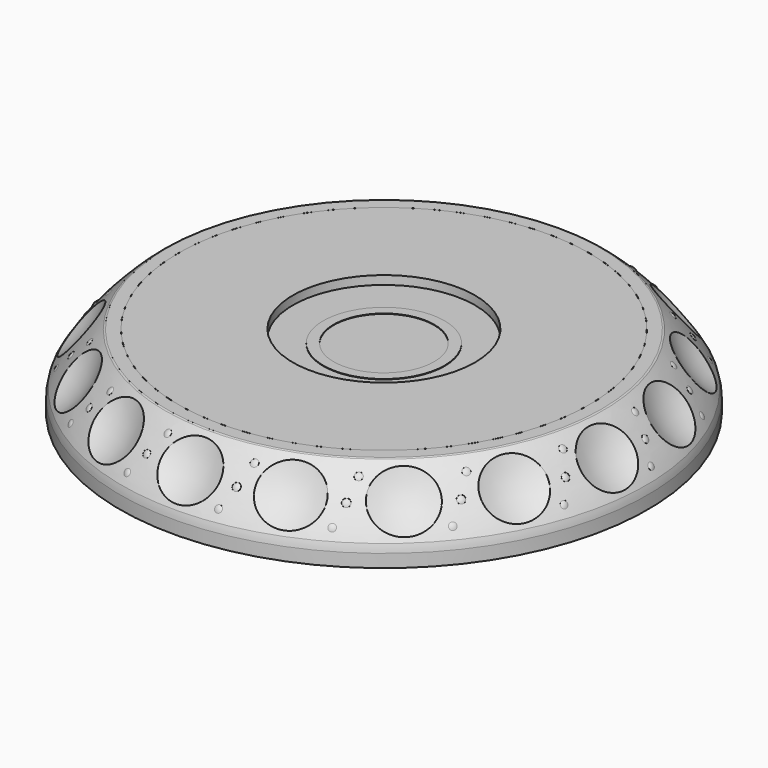
from build123d import *

# Parameters (mm, degrees)
CYLINDER_R            = 59.2
CYLINDER_DEPTH        = 4.6
CYLINDER001_R         = 47.35
CYLINDER001_DEPTH     = 0.05
CYLINDER003_R         = 21
CYLINDER003_DEPTH     = 2
CYLINDER002_R         = 47.4
CYLINDER002_DEPTH     = 2
CYLINDER005_R         = 11.6
CYLINDER005_DEPTH     = 0.1
CYLINDER004_R         = 14
CYLINDER004_DEPTH     = 0.1
CYLINDER006_R         = 23
CYLINDER006_DEPTH     = 3.45
ARRAY003_COUNT        = 17
SPHERE003_ANGLE       = 180
ARRAY002_COUNT        = 17
ARRAY001_COUNT        = 17
ARRAY_COUNT           = 17
ARRAY_PLACEMENT_ANGLE = 10.590003


with BuildPart() as cylinder:
    # Cylinder → Cylinder (new body)
    with BuildSketch(Plane.XY):
        Circle(CYLINDER_R)
    extrude(amount=CYLINDER_DEPTH)


with BuildPart() as cylinder001:
    # Cylinder001 → Cylinder001 (new body)
    with BuildSketch(Plane.XY.offset(7.9)):
        Circle(CYLINDER001_R)
    extrude(amount=CYLINDER001_DEPTH)


with BuildPart() as cylinder003:
    # Cylinder003 → Cylinder003 (new body)
    with BuildSketch(Plane.XY.offset(15.9)):
        Circle(CYLINDER003_R)
    extrude(amount=CYLINDER003_DEPTH)


with BuildPart() as cut:
    # Cylinder002 → Cylinder002 (new body)
    with BuildSketch(Plane.XY.offset(15.9)):
        Circle(CYLINDER002_R)
    extrude(amount=CYLINDER002_DEPTH)

    # Cut: cut Cylinder003
    add(cylinder003.part, mode=Mode.SUBTRACT)


with BuildPart() as cut_1:
    # Cut placement: moved
    add(cut.part.moved(Location((0, 0, -1))))


with BuildPart() as cylinder005:
    # Cylinder005 → Cylinder005 (new body)
    with BuildSketch(Plane.XY):
        Circle(CYLINDER005_R)
    extrude(amount=CYLINDER005_DEPTH)


with BuildPart() as cut001:
    # Cylinder004 → Cylinder004 (new body)
    with BuildSketch(Plane.XY):
        Circle(CYLINDER004_R)
    extrude(amount=CYLINDER004_DEPTH)

    # Cut001: cut Cylinder005
    add(cylinder005.part, mode=Mode.SUBTRACT)


with BuildPart() as cut001_1:
    # Cut001 placement: moved
    add(cut001.part.moved(Location((0, 0, 13.9))))


with BuildPart() as cylinder006:
    # Cylinder006 → Cylinder006 (new body)
    with BuildSketch(Plane.XY.offset(10.45)):
        Circle(CYLINDER006_R)
    extrude(amount=CYLINDER006_DEPTH)


with BuildPart() as array003:
    # Sphere002 → Sphere002 (revolve)
    with BuildSketch(Plane(origin=(-1.8, 51.96, 13.4), x_dir=(1, 0, 0), z_dir=(0, -1, 0))):
        with BuildLine():
            ThreePointArc((0, -1.69), (1.69, 0), (0, 1.69))
            Line((0, 1.69), (0, -1.69))
        make_face()
    revolve(axis=Axis((-1.8, 51.96, 13.4), (0, 0, 1)))

    # Array003: Array003 ×17 about axis
    array003_axis = Axis((0, 0, 13.4), (0, 0, 1))


with BuildPart() as array003_1:
    add(array003.part)
    for i in range(1, ARRAY003_COUNT):
        add(array003.part.rotate(array003_axis, i * 360 / ARRAY003_COUNT))


with BuildPart() as array002:
    # Sphere003 → Sphere003 (revolve)
    with BuildSketch(Plane(origin=(2.2, 57.86, 6.09), x_dir=(1, 0, 0), z_dir=(0, -1, 0))):
        with BuildLine():
            ThreePointArc((1.574063, -0.66815), (1.425945, 0.943812), (0, 1.71))
            Line((0, 1.71), (0, -0.66815))
            Line((0, -0.66815), (1.574063, -0.66815))
        make_face()
    revolve(axis=Axis((2.2, 57.86, 6.09), (0, 0, 1)), revolution_arc=SPHERE003_ANGLE)

    # Array002: Array002 ×17 about axis
    array002_axis = Axis((0, 0, 6.09), (0, 0, 1))


with BuildPart() as array002_1:
    add(array002.part)
    for i in range(1, ARRAY002_COUNT):
        add(array002.part.rotate(array002_axis, i * 360 / ARRAY002_COUNT))


with BuildPart() as array001:
    # Sphere001 → Sphere001 (revolve)
    with BuildSketch(Plane(origin=(0, 55.29, 9.8), x_dir=(1, 0, 0), z_dir=(0, -1, 0))):
        with BuildLine():
            ThreePointArc((0, -1.66), (1.66, 0), (0, 1.66))
            Line((0, 1.66), (0, -1.66))
        make_face()
    revolve(axis=Axis((0, 55.29, 9.8), (0, 0, 1)))

    # Array001: Array001 ×17 about axis
    array001_axis = Axis((0, 0, 9.8), (0, 0, 1))


with BuildPart() as array001_1:
    add(array001.part)
    for i in range(1, ARRAY001_COUNT):
        add(array001.part.rotate(array001_axis, i * 360 / ARRAY001_COUNT))


with BuildPart() as array:
    # Sphere → Sphere (revolve)
    with BuildSketch(Plane(origin=(0, 67.42, 20.43), x_dir=(1, 0, 0), z_dir=(0, -1, 0))):
        with BuildLine():
            ThreePointArc((0, -16.5), (16.5, 0), (0, 16.5))
            Line((0, 16.5), (0, -16.5))
        make_face()
    revolve(axis=Axis((0, 67.42, 20.43), (0, 0, 1)))

    # Array: Array ×17 about axis
    array_axis = Axis((0, 0, 21.1), (0, 0, 1))


with BuildPart() as array_1:
    add(array.part)
    for i in range(1, ARRAY_COUNT):
        add(array.part.rotate(array_axis, i * 360 / ARRAY_COUNT))


with BuildPart() as array_2:
    # Array placement: moved
    add(array_1.part.rotate(Axis((0, 0, 0), (0, 0, 1)), ARRAY_PLACEMENT_ANGLE))


with BuildPart() as fusion002:
    # Sketch → Revolve (revolve)
    with BuildSketch(Plane.XZ):
        with BuildLine():
            Line((-59.2, 0), (-60.9, 0))
            Line((-60.9, 3), (-60.9, 0))
            ThreePointArc((-60.5, 4.8), (-60.738326, 3.908517), (-60.9, 3))
            ThreePointArc((-50.569054, 16.753232), (-56.014576, 11.175449), (-60.5, 4.8))
            ThreePointArc((-50.177499, 16.9), (-50.386578, 16.862103), (-50.569054, 16.753232))
            Line((-47.4, 16.9), (-50.177499, 16.9))
            Line((-47.4, 16.9), (-47.4, 14.9))
            Line((-47.4, 14.9), (-43.7, 14.9))
            Line((-43.7, 14.9), (-43.7, 13.6))
            ThreePointArc((-44.0685, 13.044411), (-43.800499, 13.266657), (-43.7, 13.6))
            Line((-47.526018, 11.58457), (-44.0685, 13.044411))
            ThreePointArc((-47.526018, 11.58457), (-48.016189, 11.178086), (-48.2, 10.568404))
            Line((-48.2, 10.447501), (-48.2, 10.568404))
            ThreePointArc((-48.447501, 10.2), (-48.272491, 10.272491), (-48.2, 10.447501))
            Line((-48.447501, 10.2), (-50.4, 10.2))
            Line((-50.4, 10.2), (-50.4, 9.2))
            ThreePointArc((-50.880173, 8.560595), (-50.533409, 8.800186), (-50.4, 9.2))
            Line((-52.793799, 8.005026), (-50.880173, 8.560595))
            ThreePointArc((-52.793799, 8.005026), (-53.465384, 7.734176), (-54.069138, 7.334342))
            Line((-55.7, 6), (-54.069138, 7.334342))
            Line((-58.990354, 4.683858), (-55.7, 6))
            ThreePointArc((-58.990354, 4.683858), (-59.142659, 4.561178), (-59.2, 4.374204))
            Line((-59.2, 0), (-59.2, 4.374204))
        make_face()
    revolve(axis=Axis((0, 0, 0), (0, 0, 1)))

    # Cut002: cut Array
    add(array_2.part, mode=Mode.SUBTRACT)

    # Fusion: union Array001
    add(array001_1.part)

    # Fusion001: union Array002
    add(array002_1.part)

    # Fusion002: union Array003
    add(array003_1.part)


solid = Compound([cylinder.part, cylinder001.part, cut_1.part, cut001_1.part, cylinder006.part, fusion002.part])
